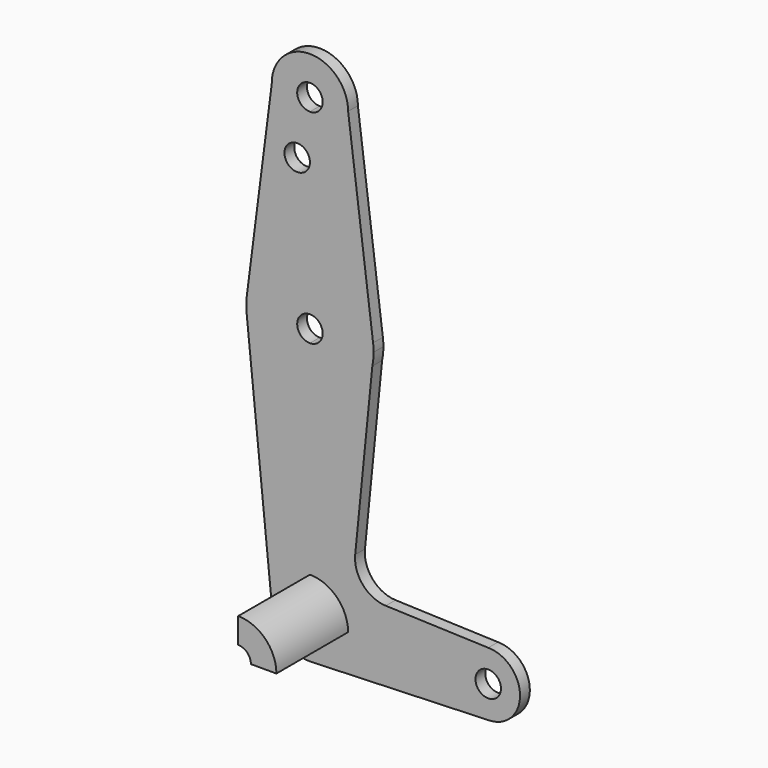
from build123d import *

# Parameters (mm, degrees)
F0_R     = 3.175
F1_DEPTH = 3.048
F2_DEPTH = 25.4


with BuildPart() as f1:
    # F0 (on Front) → F1 (new body)
    with BuildSketch(Plane.XZ):
        with BuildLine():
            ThreePointArc((3.175, 0), (-2.2450640303, -2.2450640303), (0, 3.175))
            Line((0, 3.175), (0, 9.525))
            ThreePointArc((0, 9.525), (-6.7351920908, 6.7351920908), (-9.525, 0))
            ThreePointArc((-9.525, 0), (-6.7351920908, -6.7351920908), (0, -9.525))
            Line((0, -9.525), (0.6773435479, -9.500885786))
            ThreePointArc((0.6773435479, -9.500885786), (6.9705567315, -6.4912990883), (9.525, 0))
            Line((9.525, 0), (3.175, 0))
        make_face()
        with BuildLine():
            ThreePointArc((-9.525, 0), (-6.7351920908, 6.7351920908), (0, 9.525))
            Line((0, 9.525), (0, 47.625))
            ThreePointArc((0, 47.625), (-10.644756084, 51.722700101), (-15.7942028036, 61.9003804205))
            Line((-15.7942028036, 61.9003804205), (-9.525, 0))
        make_face()
        with BuildLine():
            Line((0, 47.625), (0, 9.525))
            ThreePointArc((0, 9.525), (6.7351920908, 6.7351920908), (9.525, 0))
            Line((9.525, 0), (36.5125, 0))
            ThreePointArc((36.5125, 0), (38.8373399243, 5.6126600757), (44.45, 7.9375))
            Line((44.45, 7.9375), (18.9105730062, 8.8496223926))
            ThreePointArc((18.9105730062, 8.8496223926), (13.2053552395, 11.5661923774), (11.2835831424, 17.5858314242))
            Line((11.2835831424, 17.5858314242), (15.5606435644, 60.3564356436))
            ThreePointArc((15.5606435644, 60.3564356436), (10.0526499203, 51.2134278751), (0, 47.625))
        make_face()
        with BuildLine():
            Line((36.5125, 0), (9.525, 0))
            ThreePointArc((9.525, 0), (6.9705567315, -6.4912990883), (0.6773435479, -9.500885786))
            Line((0.6773435479, -9.500885786), (44.7324052746, -7.9324746146))
            ThreePointArc((44.7324052746, -7.9324746146), (38.9380895153, -5.7116327839), (36.5125, 0))
        make_face()
        with BuildLine():
            ThreePointArc((-15.7942028036, 61.9003804205), (-10.644756084, 51.722700101), (0, 47.625))
            Line((0, 47.625), (0, 60.325))
            ThreePointArc((0, 60.325), (-3.175, 63.5), (0, 66.675))
            Line((0, 66.675), (0, 79.375))
            ThreePointArc((0, 79.375), (-10.4880497635, 75.4170649557), (-15.746364761, 65.5168346025))
            ThreePointArc((-15.746364761, 65.5168346025), (-15.8736113026, 63.7099743162), (-15.7942028036, 61.9003804205))
        make_face()
        with BuildLine():
            Line((0, 60.325), (0, 47.625))
            ThreePointArc((0, 47.625), (10.0526499203, 51.2134278751), (15.5606435644, 60.3564356436))
            Line((15.5606435644, 60.3564356436), (15.875, 63.5))
            ThreePointArc((15.875, 63.5), (15.8430821396, 64.5061676396), (15.7474569047, 65.5082893304))
            ThreePointArc((15.7474569047, 65.5082893304), (10.4912828548, 75.4142187767), (0, 79.375))
            Line((0, 79.375), (0, 66.675))
            ThreePointArc((0, 66.675), (2.2450640303, 65.7450640303), (3.175, 63.5))
            ThreePointArc((3.175, 63.5), (2.2450640303, 61.2549359697), (0, 60.325))
        make_face()
        with BuildLine():
            ThreePointArc((0, -9.525), (0.3388863295, -9.5189695375), (0.6773435479, -9.500885786))
            Line((0.6773435479, -9.500885786), (0, -9.525))
        make_face()
        with BuildLine():
            ThreePointArc((44.45, 7.9375), (38.8373399243, 5.6126600757), (36.5125, 0))
            ThreePointArc((36.5125, 0), (38.9380895153, -5.7116327839), (44.7324052746, -7.9324746146))
            ThreePointArc((44.7324052746, -7.9324746146), (50.1616327839, -5.5119104847), (52.3875, 0))
            ThreePointArc((52.3875, 0), (50.0626600757, 5.6126600757), (44.45, 7.9375))
        make_face()
        with BuildLine():
            ThreePointArc((47.625, 0), (44.45, -3.175), (41.275, 0))
            ThreePointArc((41.275, 0), (44.45, 3.175), (47.625, 0))
        make_face(mode=Mode.SUBTRACT)
        with BuildLine():
            Line((15.875, 63.5), (15.5606435644, 60.3564356436))
            ThreePointArc((15.5606435644, 60.3564356436), (15.7962153946, 61.9203784605), (15.875, 63.5))
        make_face()
        with BuildLine():
            Line((-9.5230126444, 114.1054359383), (-15.746364761, 65.5168346025))
            ThreePointArc((-15.746364761, 65.5168346025), (-10.4880497635, 75.4170649557), (0, 79.375))
            Line((0, 79.375), (0, 100.0252))
            Line((0, 100.0252), (0, 104.775))
            ThreePointArc((0, 104.775), (-6.6660483914, 107.4963668644), (-9.5230126444, 114.1054359383))
        make_face()
        with Locations((-3.175, 100.0252)):
            Circle(F0_R, mode=Mode.SUBTRACT)
        with BuildLine():
            Line((0, 100.0252), (0, 79.375))
            ThreePointArc((0, 79.375), (10.4912828548, 75.4142187767), (15.7474569047, 65.5082893304))
            Line((15.7474569047, 65.5082893304), (9.525, 114.3))
            ThreePointArc((9.525, 114.3), (6.7351920908, 107.5648079092), (0, 104.775))
            Line((0, 104.775), (0, 100.0252))
        make_face()
        with BuildLine():
            ThreePointArc((9.525, 114.3), (-0.0972871056, 123.8245031481), (-9.5230126444, 114.1054359383))
            ThreePointArc((-9.5230126444, 114.1054359383), (-6.6660483914, 107.4963668644), (0, 104.775))
            ThreePointArc((0, 104.775), (6.7351920908, 107.5648079092), (9.525, 114.3))
        make_face()
        with BuildLine():
            ThreePointArc((3.175, 114.3), (2.2450640303, 112.0549359697), (0, 111.125))
            ThreePointArc((0, 111.125), (-2.2450640303, 116.5450640303), (3.175, 114.3))
        make_face(mode=Mode.SUBTRACT)
    extrude(amount=F1_DEPTH)

    # F0 (on Front) → F2 (join)
    with BuildSketch(Plane.XZ):
        with BuildLine():
            Line((0, 9.525), (0, 3.175))
            ThreePointArc((0, 3.175), (2.2450640303, 2.2450640303), (3.175, 0))
            Line((3.175, 0), (9.525, 0))
            ThreePointArc((9.525, 0), (6.7351920908, 6.7351920908), (0, 9.525))
        make_face()
    extrude(amount=F2_DEPTH)


solid = f1.part
